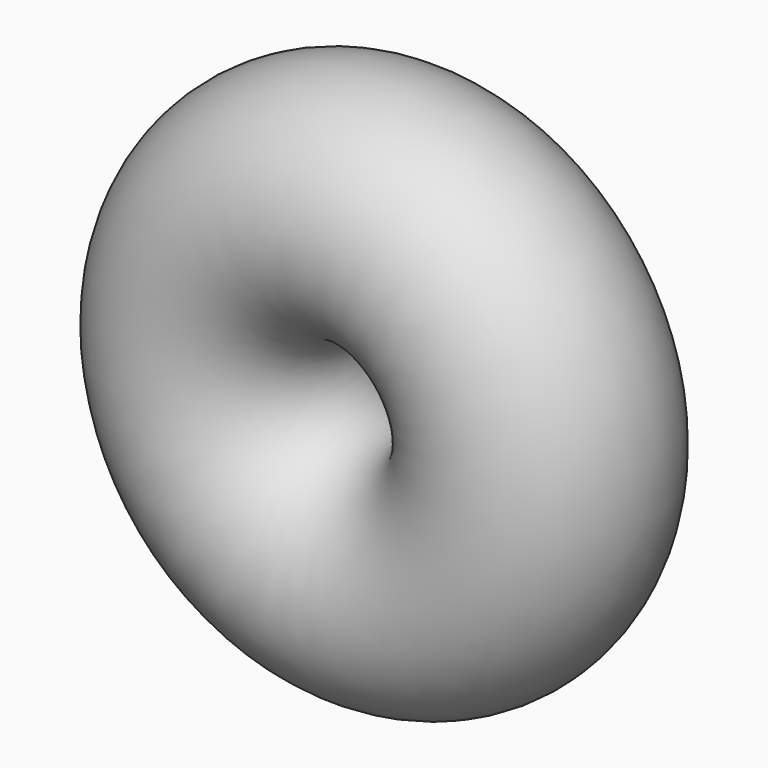
from build123d import *

# Parameters (mm, degrees)
F0_R = 52.7723223391


with BuildPart() as f1:
    # F0 (on Top) → F1 (revolve)
    with BuildSketch(Plane.XY):
        with Locations((0, -10.0171808153)):
            Circle(F0_R)
        Polygon((-18.8581951841, -55.7005558928), (-16.9796142727, -49.5540089905), (-12.5958389655, -54.254181234), align=None, mode=Mode.SUBTRACT)
        Polygon((-19.9148682779, -44.3011192561), (-14.1960689798, -35.3601202369), (-9.312336343, -44.7832452177), align=None, mode=Mode.SUBTRACT)
        Polygon((-37.8449336658, -38.4978990289), (-30.3406212479, -31.285527923), (-27.8466808577, -41.3906386678), align=None, mode=Mode.SUBTRACT)
        Polygon((-51.2316623557, -15.6018324194), (-43.4232726693, -7.8627904877), (-40.6252605987, -18.4945752846), align=None, mode=Mode.SUBTRACT)
        Polygon((-36.0875399331, -23.9879070569), (-28.3921398222, -14.5160714164), (-24.0369895926, -25.9164012249), align=None, mode=Mode.SUBTRACT)
        Polygon((-12.5264915148, -32.7319001622), (-7.5155673549, -21.1599804461), (0.0005470099, -31.285527923), align=None, mode=Mode.SUBTRACT)
        Polygon((-4.7606912947, -58.8437298159), (2.2268334869, -46.7409826815), (9.2143575701, -58.8437302192), align=None, mode=Mode.SUBTRACT)
        Polygon((4.3598419952, -37.7156484385), (15.8661976457, -31.285527923), (15.6816675362, -44.4653844791), align=None, mode=Mode.SUBTRACT)
        Polygon((15.8805513259, -53.6689143628), (21.1845240718, -44.4821640849), (26.4884968177, -53.6689143628), align=None, mode=Mode.SUBTRACT)
        Polygon((6.0538573564, -18.1603354504), (16.9796142727, -8.8788466528), (19.5547408982, -22.9815740967), align=None, mode=Mode.SUBTRACT)
        Polygon((26.7910249881, -40.1560813189), (33.3001335842, -28.8819745183), (39.8092421804, -40.1560813189), align=None, mode=Mode.SUBTRACT)
        Polygon((31.1720457173, -17.1003545844), (39.5263135433, -7.4515785091), (43.705264827, -19.5109747141), align=None, mode=Mode.SUBTRACT)
        Polygon((-45.7502269255, 0.102902691), (-35.0726433098, 6.0618030839), (-35.2508759988, -6.1647057748), align=None, mode=Mode.SUBTRACT)
        Polygon((-19.7211694426, -8.6055044083), (-11.4125274122, 0), (-8.1142629974, -11.4982472735), align=None, mode=Mode.SUBTRACT)
        Polygon((-27.0669383877, 15.326414097), (-15.866195783, 18.3344576508), (-18.8615249521, 7.130308237), align=None, mode=Mode.SUBTRACT)
        Polygon((-39.5115197089, 18.483796351), (-33.9592248201, 24.2436584085), (-31.7471854004, 16.5552989568), align=None, mode=Mode.SUBTRACT)
        Polygon((-23.4429210089, 29.2072449645), (-18.0930290371, 35.5807803571), (-15.2483314611, 27.7608703057), align=None, mode=Mode.SUBTRACT)
        Polygon((-11.2133949304, 28.6635721618), (-2.5051881094, 36.9968935847), (0.3575765302, 25.2887045449), align=None, mode=Mode.SUBTRACT)
        Polygon((-1.1158180911, 0.4779665039), (10.2991089225, 0), (4.1777142812, -9.6466335242), align=None, mode=Mode.SUBTRACT)
        Polygon((-2.4691048729, 6.8572270468), (3.6186068319, 18.3656960726), (10.5413775145, 7.3393485725), align=None, mode=Mode.SUBTRACT)
        Polygon((21.2573128061, -1.8228715055), (24.7735343874, 10.0528886542), (33.3001335842, 1.0698713597), align=None, mode=Mode.SUBTRACT)
        Polygon((38.0221445884, 2.6263642466), (39.5263135433, 10.0528886542), (45.2057878647, 5.0369779239), align=None, mode=Mode.SUBTRACT)
        Polygon((6.1008159324, 25.2950683298), (10.855817236, 32.566729933), (14.7757602603, 24.8129472074), align=None, mode=Mode.SUBTRACT)
        Polygon((21.1845240718, 19.7609179054), (23.9384695888, 30.3163900971), (31.7028038972, 22.653667223), align=None, mode=Mode.SUBTRACT)
        Polygon((19.5547408982, -22.9815740967), (16.9796142727, -8.8788466528), (6.0538573564, -18.1603354504), align=None)
        Polygon((9.2143575701, -58.8437302192), (2.2268334869, -46.7409826815), (-4.7606912947, -58.8437298159), align=None)
        Polygon((15.6816675362, -44.4653844791), (15.8661976457, -31.285527923), (4.3598419952, -37.7156484385), align=None)
        Polygon((10.5413775145, 7.3393485725), (3.6186068319, 18.3656960726), (-2.4691048729, 6.8572270468), align=None)
        Polygon((39.8092421804, -40.1560813189), (33.3001335842, -28.8819745183), (26.7910249881, -40.1560813189), align=None)
        Polygon((43.705264827, -19.5109747141), (39.5263135433, -7.4515785091), (31.1720457173, -17.1003545844), align=None)
        Polygon((0.0005470099, -31.285527923), (-7.5155673549, -21.1599804461), (-12.5264915148, -32.7319001622), align=None)
        Polygon((33.3001335842, 1.0698713597), (24.7735343874, 10.0528886542), (21.2573128061, -1.8228715055), align=None)
        Polygon((-35.2508759988, -6.1647057748), (-35.0726433098, 6.0618030839), (-45.7502269255, 0.102902691), align=None)
        Polygon((-24.0369895926, -25.9164012249), (-28.3921398222, -14.5160714164), (-36.0875399331, -23.9879070569), align=None)
        Polygon((0.3575765302, 25.2887045449), (-2.5051881094, 36.9968935847), (-11.2133949304, 28.6635721618), align=None)
        Polygon((-8.1142629974, -11.4982472735), (-11.4125274122, 0), (-19.7211694426, -8.6055044083), align=None)
        Polygon((-18.8615249521, 7.130308237), (-15.866195783, 18.3344576508), (-27.0669383877, 15.326414097), align=None)
        Polygon((4.1777142812, -9.6466335242), (10.2991089225, 0), (-1.1158180911, 0.4779665039), align=None)
        Polygon((-40.6252605987, -18.4945752846), (-43.4232726693, -7.8627904877), (-51.2316623557, -15.6018324194), align=None)
        Polygon((31.7028038972, 22.653667223), (23.9384695888, 30.3163900971), (21.1845240718, 19.7609179054), align=None)
        Polygon((-9.312336343, -44.7832452177), (-14.1960689798, -35.3601202369), (-19.9148682779, -44.3011192561), align=None)
        Polygon((26.4884968177, -53.6689143628), (21.1845240718, -44.4821640849), (15.8805513259, -53.6689143628), align=None)
        Polygon((-27.8466808577, -41.3906386678), (-30.3406212479, -31.285527923), (-37.8449336658, -38.4978990289), align=None)
        Polygon((14.7757602603, 24.8129472074), (10.855817236, 32.566729933), (6.1008159324, 25.2950683298), align=None)
        Polygon((-15.2483314611, 27.7608703057), (-18.0930290371, 35.5807803571), (-23.4429210089, 29.2072449645), align=None)
        Polygon((-31.7471854004, 16.5552989568), (-33.9592248201, 24.2436584085), (-39.5115197089, 18.483796351), align=None)
        Polygon((45.2057878647, 5.0369779239), (39.5263135433, 10.0528886542), (38.0221445884, 2.6263642466), align=None)
        Polygon((-12.5958389655, -54.254181234), (-16.9796142727, -49.5540089905), (-18.8581951841, -55.7005558928), align=None)
    revolve(axis=Axis((-72.6504772902, -1.9278302789, 0), (-0.0211125879, -0.9997771045, 0)))


solid = f1.part
